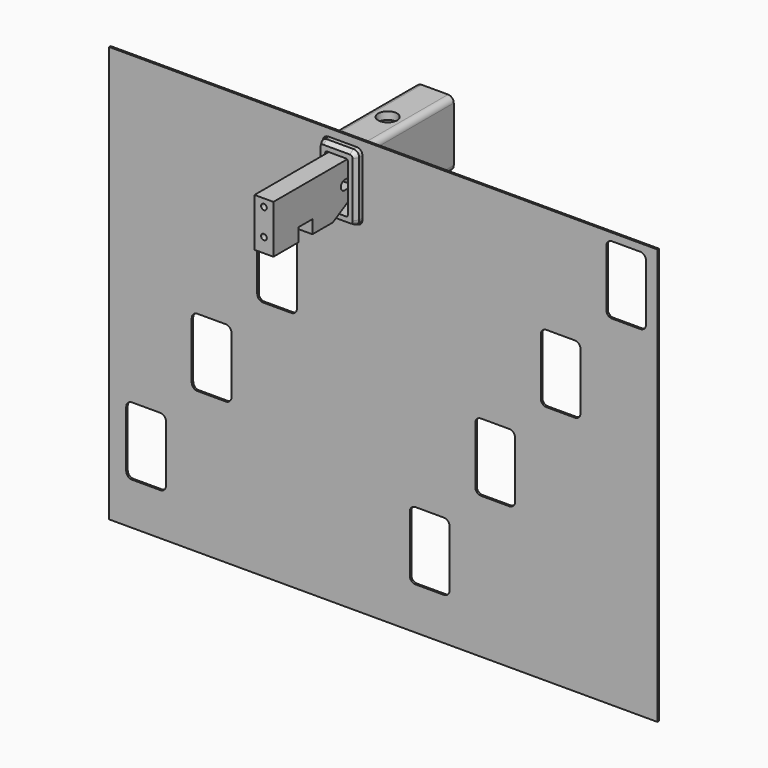
from build123d import *

# Parameters (mm, degrees)
F0_W      = 290
F0_H      = 220
F1_DEPTH  = 1
F3_DEPTH  = 5
F4_SIZE2  = 1.5
F4_SIZE   = 2.5
F5_DEPTH  = 60
F6_R      = 5
F7_DEPTH  = 35
F11_W     = 10
F11_H     = 25.5586259929
F11_R     = 1.5
F8_DEPTH  = 53
F9_W      = 9.0754777193
F9_H      = 7.0361659809
F9_W_2    = 5.9644267894
F9_H_2    = 4.9215108156
F10_DEPTH = 10


with BuildPart() as f1:
    # F0 (on Front) → F1 (new body)
    with BuildSketch(Plane.XZ):
        with Locations((145, 110)):
            Rectangle(F0_W, F0_H)
        with BuildLine():
            ThreePointArc((27.05129, 58.41831), (29.1726103436, 57.5396303436), (30.05129, 55.41831))
            Line((30.05129, 55.41831), (30.05129, 25.41831))
            ThreePointArc((30.05129, 25.41831), (29.1726103436, 23.2969896564), (27.05129, 22.41831))
            Line((27.05129, 22.41831), (12.05129, 22.41831))
            ThreePointArc((12.05129, 22.41831), (9.9299696564, 23.2969896564), (9.05129, 25.41831))
            Line((9.05129, 25.41831), (9.05129, 55.41831))
            ThreePointArc((9.05129, 55.41831), (9.9299696564, 57.5396303436), (12.05129, 58.41831))
            Line((12.05129, 58.41831), (27.05129, 58.41831))
        make_face(mode=Mode.SUBTRACT)
        with BuildLine():
            Line((43.70086, 77.94554), (43.70086, 107.94554))
            ThreePointArc((43.70086, 107.94554), (44.5795396564, 110.0668603436), (46.70086, 110.94554))
            Line((46.70086, 110.94554), (61.70086, 110.94554))
            ThreePointArc((61.70086, 110.94554), (63.8221803436, 110.0668603436), (64.70086, 107.94554))
            Line((64.70086, 107.94554), (64.70086, 77.94554))
            ThreePointArc((64.70086, 77.94554), (63.8221803436, 75.8242196564), (61.70086, 74.94554))
            Line((61.70086, 74.94554), (46.70086, 74.94554))
            ThreePointArc((46.70086, 74.94554), (44.5795396564, 75.8242196564), (43.70086, 77.94554))
        make_face(mode=Mode.SUBTRACT)
        with BuildLine():
            ThreePointArc((177.05129, 58.41831), (179.1726103436, 57.5396303436), (180.05129, 55.41831))
            Line((180.05129, 55.41831), (180.05129, 25.41831))
            ThreePointArc((180.05129, 25.41831), (179.1726103436, 23.2969896564), (177.05129, 22.41831))
            Line((177.05129, 22.41831), (162.05129, 22.41831))
            ThreePointArc((162.05129, 22.41831), (159.9299696564, 23.2969896564), (159.05129, 25.41831))
            Line((159.05129, 25.41831), (159.05129, 55.41831))
            ThreePointArc((159.05129, 55.41831), (159.9299696564, 57.5396303436), (162.05129, 58.41831))
            Line((162.05129, 58.41831), (177.05129, 58.41831))
        make_face(mode=Mode.SUBTRACT)
        with BuildLine():
            ThreePointArc((211.70086, 110.94554), (213.8221803436, 110.0668603436), (214.70086, 107.94554))
            Line((214.70086, 107.94554), (214.70086, 77.94554))
            ThreePointArc((214.70086, 77.94554), (213.8221803436, 75.8242196564), (211.70086, 74.94554))
            Line((211.70086, 74.94554), (196.70086, 74.94554))
            ThreePointArc((196.70086, 74.94554), (194.5795396564, 75.8242196564), (193.70086, 77.94554))
            Line((193.70086, 77.94554), (193.70086, 107.94554))
            ThreePointArc((193.70086, 107.94554), (194.5795396564, 110.0668603436), (196.70086, 110.94554))
            Line((196.70086, 110.94554), (211.70086, 110.94554))
        make_face(mode=Mode.SUBTRACT)
        with BuildLine():
            Line((78.35043, 130.47277), (78.35043, 160.47277))
            ThreePointArc((78.35043, 160.47277), (79.2291096564, 162.5940903436), (81.35043, 163.47277))
            Line((81.35043, 163.47277), (96.35043, 163.47277))
            ThreePointArc((96.35043, 163.47277), (98.4717503436, 162.5940903436), (99.35043, 160.47277))
            Line((99.35043, 160.47277), (99.35043, 130.47277))
            ThreePointArc((99.35043, 130.47277), (98.4717503436, 128.3514496564), (96.35043, 127.47277))
            Line((96.35043, 127.47277), (81.35043, 127.47277))
            ThreePointArc((81.35043, 127.47277), (79.2291096564, 128.3514496564), (78.35043, 130.47277))
        make_face(mode=Mode.SUBTRACT)
        with BuildLine():
            ThreePointArc((113, 213), (113.8786796564, 215.1213203436), (116, 216))
            Line((116, 216), (131, 216))
            ThreePointArc((131, 216), (133.1213203436, 215.1213203436), (134, 213))
            Line((134, 213), (134, 183))
            ThreePointArc((134, 183), (133.1213203436, 180.8786796564), (131, 180))
            Line((131, 180), (116, 180))
            ThreePointArc((116, 180), (113.8786796564, 180.8786796564), (113, 183))
            Line((113, 183), (113, 213))
        make_face(mode=Mode.SUBTRACT)
        with BuildLine():
            ThreePointArc((246.35043, 163.47277), (248.4717503436, 162.5940903436), (249.35043, 160.47277))
            Line((249.35043, 160.47277), (249.35043, 130.47277))
            ThreePointArc((249.35043, 130.47277), (248.4717503436, 128.3514496564), (246.35043, 127.47277))
            Line((246.35043, 127.47277), (231.35043, 127.47277))
            ThreePointArc((231.35043, 127.47277), (229.2291096564, 128.3514496564), (228.35043, 130.47277))
            Line((228.35043, 130.47277), (228.35043, 160.47277))
            ThreePointArc((228.35043, 160.47277), (229.2291096564, 162.5940903436), (231.35043, 163.47277))
            Line((231.35043, 163.47277), (246.35043, 163.47277))
        make_face(mode=Mode.SUBTRACT)
        with BuildLine():
            ThreePointArc((263, 213), (263.8786796564, 215.1213203436), (266, 216))
            Line((266, 216), (281, 216))
            ThreePointArc((281, 216), (283.1213203436, 215.1213203436), (284, 213))
            Line((284, 213), (284, 183))
            ThreePointArc((284, 183), (283.1213203436, 180.8786796564), (281, 180))
            Line((281, 180), (266, 180))
            ThreePointArc((266, 180), (263.8786796564, 180.8786796564), (263, 183))
            Line((263, 183), (263, 213))
        make_face(mode=Mode.SUBTRACT)
    extrude(amount=F1_DEPTH)


with BuildPart() as f3:
    # F2 (on Front) → F3 (new body)
    with BuildSketch(Plane.XZ):
        with BuildLine():
            ThreePointArc((116.5, 215.5), (114.3786796564, 214.6213203436), (113.5, 212.5))
            Line((113.5, 212.5), (113.5, 183.5))
            ThreePointArc((113.5, 183.5), (114.3786796564, 181.3786796564), (116.5, 180.5))
            Line((116.5, 180.5), (130.5, 180.5))
            ThreePointArc((130.5, 180.5), (132.6213203436, 181.3786796564), (133.5, 183.5))
            Line((133.5, 183.5), (133.5, 212.5))
            ThreePointArc((133.5, 212.5), (132.6213203436, 214.6213203436), (130.5, 215.5))
            Line((130.5, 215.5), (116.5, 215.5))
        make_face()
        with BuildLine():
            Line((118.5, 211.5), (128.5, 211.5))
            ThreePointArc((128.5, 211.5), (129.2071067812, 211.2071067812), (129.5, 210.5))
            Line((129.5, 210.5), (129.5, 198))
            Line((129.5, 198), (129.5, 185.5))
            ThreePointArc((129.5, 185.5), (129.2071067812, 184.7928932188), (128.5, 184.5))
            Line((128.5, 184.5), (123.5, 184.5))
            Line((123.5, 184.5), (118.5, 184.5))
            ThreePointArc((118.5, 184.5), (117.7928932188, 184.7928932188), (117.5, 185.5))
            Line((117.5, 185.5), (117.5, 210.5))
            ThreePointArc((117.5, 210.5), (117.7928932188, 211.2071067812), (118.5, 211.5))
        make_face(mode=Mode.SUBTRACT)
        with BuildLine():
            ThreePointArc((116.5, 215.5), (114.3786796564, 214.6213203436), (113.5, 212.5))
            Line((113.5, 212.5), (113.5, 183.5))
            ThreePointArc((113.5, 183.5), (114.3786796564, 181.3786796564), (116.5, 180.5))
            Line((116.5, 180.5), (130.5, 180.5))
            ThreePointArc((130.5, 180.5), (132.6213203436, 181.3786796564), (133.5, 183.5))
            Line((133.5, 183.5), (133.5, 212.5))
            ThreePointArc((133.5, 212.5), (132.6213203436, 214.6213203436), (130.5, 215.5))
            Line((130.5, 215.5), (116.5, 215.5))
        make_face()
        with BuildLine():
            Line((118.5, 211.5), (128.5, 211.5))
            ThreePointArc((128.5, 211.5), (129.2071067812, 211.2071067812), (129.5, 210.5))
            Line((129.5, 210.5), (129.5, 198))
            Line((129.5, 198), (129.5, 185.5))
            ThreePointArc((129.5, 185.5), (129.2071067812, 184.7928932188), (128.5, 184.5))
            Line((128.5, 184.5), (123.5, 184.5))
            Line((123.5, 184.5), (118.5, 184.5))
            ThreePointArc((118.5, 184.5), (117.7928932188, 184.7928932188), (117.5, 185.5))
            Line((117.5, 185.5), (117.5, 210.5))
            ThreePointArc((117.5, 210.5), (117.7928932188, 211.2071067812), (118.5, 211.5))
        make_face(mode=Mode.SUBTRACT)
    extrude(amount=F3_DEPTH)

    # F4
    f4_edges = [f3.edges().sort_by_distance(p)[0] for p in [
        (133.5, -5, 198),
        (132.62132, -5, 214.62132),
        (123.5, -5, 215.5),
        (114.37868, -5, 214.62132),
        (113.5, -5, 198),
        (114.37868, -5, 181.37868),
        (123.5, -5, 180.5),
        (132.62132, -5, 181.37868),
    ]]
    chamfer(f4_edges, length=F4_SIZE, length2=F4_SIZE2)

    # F5 (add): a face of the model
    f5_faces = [f3.faces().sort_by_distance(p)[0] for p in [
        (114.6637235127, 0, 214.3362764873),
    ]]
    extrude(f5_faces, amount=F5_DEPTH)

    # F6 (on face) → F7 (cut)
    with BuildSketch(Plane.XY.offset(215.5)):
        with Locations((123.5, 28.7746358663)):
            Circle(F6_R)
    extrude(amount=-F7_DEPTH, mode=Mode.SUBTRACT)


with BuildPart() as f8:
    # F11 (on Front) → F8 (new body)
    with BuildSketch(Plane.XZ):
        with Locations((123.5, 198)):
            Rectangle(F11_W, F11_H)
        with Locations((123.5, 192.7793129965)):
            Circle(F11_R, mode=Mode.SUBTRACT)
        with Locations((123.5, 206.7793129965)):
            Circle(F11_R, mode=Mode.SUBTRACT)
    extrude(amount=F8_DEPTH)

    # F9 (on face) → F10 (cut, through all)
    with BuildSketch(Plane.YZ.offset(128.5)):
        with Locations((-31.7641720176, 188.738769994)):
            Rectangle(F9_W, F9_H)
        Polygon((0, 192.7823275328), (-13.698223047, 185.2206870035), (0, 185.2206870035), align=None)
        with Locations((-2.9822133947, 199.4615122676)):
            Rectangle(F9_W_2, F9_H_2)
        with BuildLine():
            Line((-5.9644267894, 197.0007568598), (-5.9644267894, 201.9222676754))
            ThreePointArc((-5.9644267894, 201.9222676754), (-8.4251821972, 199.4615122676), (-5.9644267894, 197.0007568598))
        make_face()
    extrude(amount=-F10_DEPTH, mode=Mode.SUBTRACT)


solid = Compound([f1.part, f3.part, f8.part])
